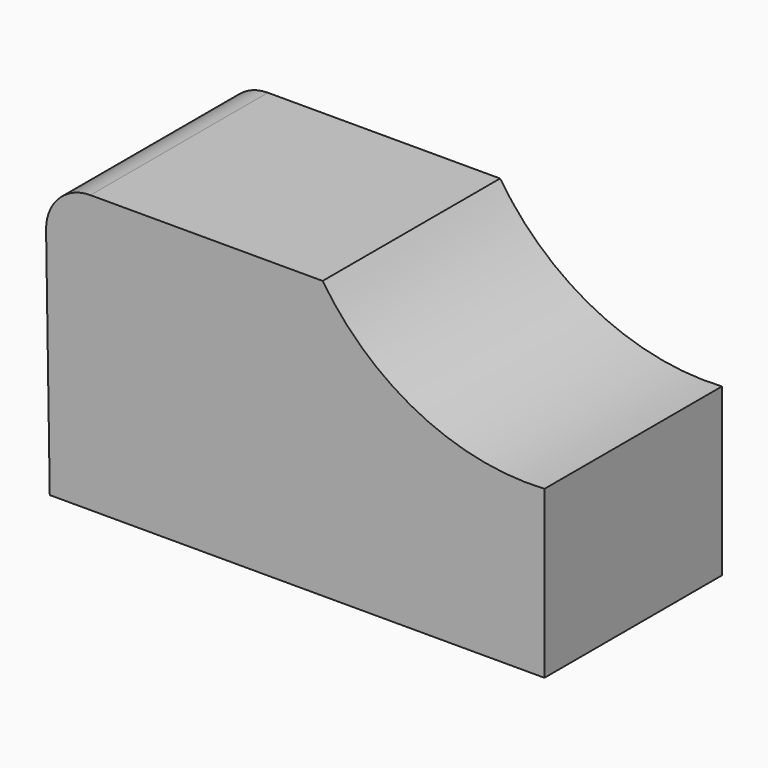
from build123d import *

# Parameters (mm, degrees)
F1_DEPTH = 25.4
F3_DEPTH = 25.4
F4_R     = 5.08


with BuildPart() as f1:
    # F0 (on Front) → F1 (new body)
    with BuildSketch(Plane.XZ):
        Polygon((-45.568943, 31.75), (-45.065421, 0), (11.581057, 0), (11.581057, 31.75), align=None)
    extrude(amount=F1_DEPTH)

    # F2 (on face) → F3 (cut)
    with BuildSketch(Plane.XZ.offset(25.4)):
        with BuildLine():
            Line((11.581057, 31.75), (-13.818943, 31.75))
            ThreePointArc((-13.818943, 31.75), (-2.817404, 22.003079), (11.581057, 19.05))
            Line((11.581057, 19.05), (11.581057, 31.75))
        make_face()
    extrude(amount=-F3_DEPTH, mode=Mode.SUBTRACT)

    # F4
    f4_edges = [f1.edges().sort_by_distance(p)[0] for p in [
        (-45.568943, -12.7, 31.75),
    ]]
    fillet(f4_edges, radius=F4_R)


solid = f1.part
